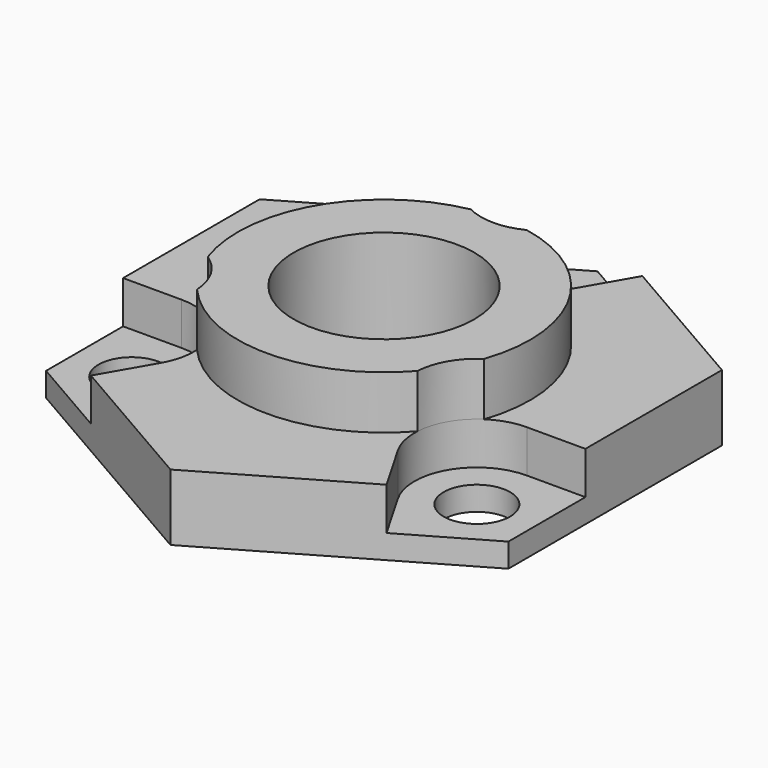
from build123d import *

# Parameters (mm, degrees)
F0_R     = 1.5875
F0_R_2   = 4.318
F1_DEPTH = 3.175
F3_DEPTH = 2.032
F5_R     = 4.318
F6_DEPTH = 2.54


with BuildPart() as f1:
    # F0 (on Top) → F1 (new body)
    with BuildSketch(Plane.XY):
        Polygon((11.049, -6.379143), (11.049, 6.379143), (0, 12.758286), (-11.049, 6.379143), (-11.049, -6.379143), (0, -12.758286), align=None)
        with Locations((-8.248892, -4.7625)):
            Circle(F0_R, mode=Mode.SUBTRACT)
        with Locations((8.248892, -4.7625)):
            Circle(F0_R, mode=Mode.SUBTRACT)
        Circle(F0_R_2, mode=Mode.SUBTRACT)
        with Locations((0, 9.525)):
            Circle(F0_R, mode=Mode.SUBTRACT)
    extrude(amount=F1_DEPTH)

    # F2 (on face) → F3 (cut)
    with BuildSketch(Plane.XY.offset(3.175)):
        with BuildLine():
            Line((0, 12.758286), (-3.984707, 10.457715))
            Line((-3.984707, 10.457715), (-2.584653, 8.03275))
            ThreePointArc((-2.584653, 8.03275), (0, 6.5405), (2.584653, 8.03275))
            Line((2.584653, 8.03275), (3.984707, 10.457715))
            Line((3.984707, 10.457715), (0, 12.758286))
        make_face()
        with BuildLine():
            Line((-8.248892, -1.778), (-11.049, -1.778))
            Line((-11.049, -1.778), (-11.049, -6.379143))
            Line((-11.049, -6.379143), (-7.064293, -8.679715))
            Line((-7.064293, -8.679715), (-5.664239, -6.25475))
            ThreePointArc((-5.664239, -6.25475), (-5.664239, -3.27025), (-8.248892, -1.778))
        make_face()
        with BuildLine():
            Line((5.664239, -6.25475), (7.064293, -8.679715))
            Line((7.064293, -8.679715), (11.049, -6.379143))
            Line((11.049, -6.379143), (11.049, -1.778))
            Line((11.049, -1.778), (8.248892, -1.778))
            ThreePointArc((8.248892, -1.778), (5.664239, -3.27025), (5.664239, -6.25475))
        make_face()
    extrude(amount=-F3_DEPTH, mode=Mode.SUBTRACT)

    # F5 (on face) → F6 (join)
    with BuildSketch(Plane.XY.offset(3.175)):
        with BuildLine():
            ThreePointArc((-6.60542, -2.271268), (-5.664239, -3.27025), (-5.269685, -4.584827))
            ThreePointArc((-5.269685, -4.584827), (0, -6.985), (5.269685, -4.584827))
            ThreePointArc((5.269685, -4.584827), (5.664239, -3.27025), (6.60542, -2.271268))
            ThreePointArc((6.60542, -2.271268), (6.049187, 3.4925), (1.335734, 6.856095))
            ThreePointArc((1.335734, 6.856095), (0, 6.5405), (-1.335734, 6.856095))
            ThreePointArc((-1.335734, 6.856095), (-6.049187, 3.4925), (-6.60542, -2.271268))
        make_face()
        Circle(F5_R, mode=Mode.SUBTRACT)
    extrude(amount=F6_DEPTH)


solid = f1.part
